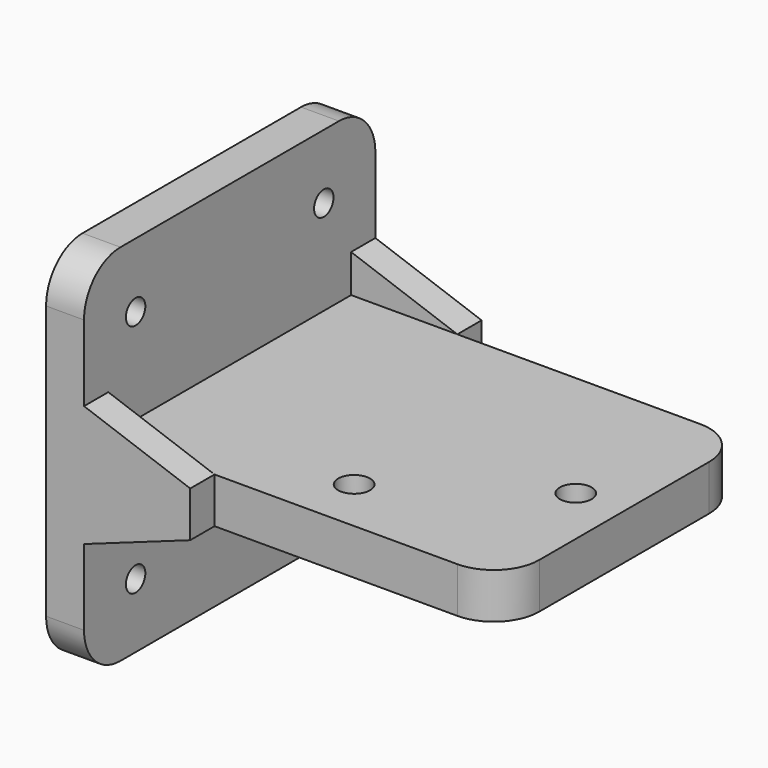
from build123d import *

# Parameters (mm, degrees)
SKETCH_W     = 48
SKETCH_H     = 48
SKETCH_R     = 1.6
PAD_DEPTH    = 5
SKETCH001_W  = 40
SKETCH001_H  = 6
PAD001_DEPTH = 52
PAD002_DEPTH = 4
PAD003_DEPTH = 4
SKETCH004_R  = 2.1
POCKET_DEPTH = 8
FILLET_R     = 6


with BuildPart() as part:
    # Sketch → Pad (new body)
    with BuildSketch(Plane.YZ):
        Rectangle(SKETCH_W, SKETCH_H)
        with Locations((-15.5, 15.5)):
            Circle(SKETCH_R, mode=Mode.SUBTRACT)
        with Locations((-15.5, -15.5)):
            Circle(SKETCH_R, mode=Mode.SUBTRACT)
        with Locations((15.5, -15.5)):
            Circle(SKETCH_R, mode=Mode.SUBTRACT)
        with Locations((15.5, 15.5)):
            Circle(SKETCH_R, mode=Mode.SUBTRACT)
    extrude(amount=PAD_DEPTH)

    # Sketch001 (on Face10 of Pad) → Pad001 (join)
    with BuildSketch(Plane.YZ.offset(5)):
        Rectangle(SKETCH001_W, SKETCH001_H)
    extrude(amount=PAD001_DEPTH)

    # Sketch002 (on DatumPlane) → Pad002 (join)
    with BuildSketch(Plane(origin=(0, -24, 0), x_dir=(0, 0, -1), z_dir=(0, -1, 0))):
        Polygon((-8, 5), (8, 5), (3, 19), (-3, 19), align=None)
    extrude(amount=-PAD002_DEPTH)

    # Sketch003 (on DatumPlane) → Pad003 (join)
    with BuildSketch(Plane.ZX.offset(24)):
        Polygon((-8, 5), (8, 5), (3, 19), (-3, 19), align=None)
    extrude(amount=-PAD003_DEPTH)

    # Sketch004 (on Face16 of Pad003) → Pocket (cut)
    with BuildSketch(Plane(origin=(0, 0, 3), x_dir=(0, -1, 0), z_dir=(0, 0, 1))):
        with Locations((0.05, 50.65)):
            Circle(SKETCH004_R)
        with Locations((12.75, 31.6)):
            Circle(SKETCH004_R)
    extrude(amount=-POCKET_DEPTH, mode=Mode.SUBTRACT)

    # Fillet
    fillet_edges = [part.edges().sort_by_distance(p)[0] for p in [
        (2.5, -24, 24),
        (57, -20, 0),
        (57, 20, 0),
        (2.5, -24, -24),
        (2.5, 24, -24),
        (2.5, 24, 24),
    ]]
    fillet(fillet_edges, radius=FILLET_R)


solid = part.part
